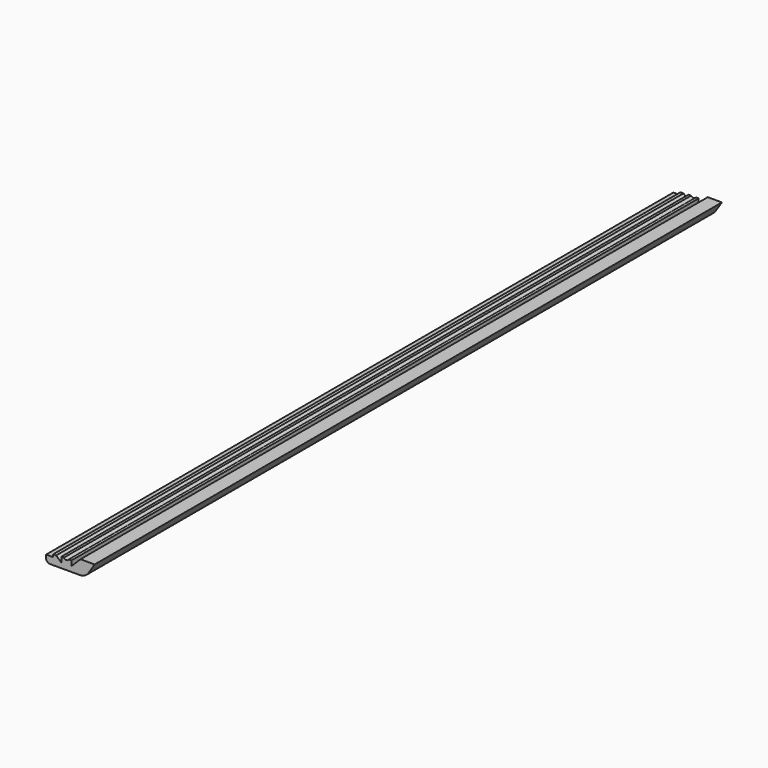
from build123d import *

# Parameters (mm, degrees)
PAD_DEPTH    = 775
POCKET_DEPTH = 800


with BuildPart() as part:
    # Sketch → Pad (new body)
    with BuildSketch(Plane.XZ):
        with BuildLine():
            Line((14, -4), (-16, -4))
            ThreePointArc((-20, 0), (-18.828427, -2.828427), (-16, -4))
            Line((-20, 3), (-20, 0))
            Line((-13, 3), (-20, 3))
            Line((-13, 5.5), (-13, 3))
            Line((-10, 5.5), (-13, 5.5))
            Line((-10, 5.5), (-5, 1))
            Line((-5, 6), (-5, 1))
            Line((5, 6), (-5, 6))
            Line((5, 6), (5, 1))
            Line((14, 10), (5, 1))
            Line((28, 10), (14, 10))
            Line((21.78, 0.396373), (28, 10))
            ThreePointArc((14, -4), (18.428584, -2.754913), (21.78, 0.396373))
        make_face()
    extrude(amount=PAD_DEPTH)

    # Sketch001 (on Face16 of Pad) → Pocket (cut)
    with BuildSketch(Plane.XZ.offset(775)):
        with BuildLine():
            ThreePointArc((-2.51, 6.117451), (0, 4.67), (2.51, 6.117451))
            Line((-2.51, 6.117451), (2.51, 6.117451))
        make_face()
    extrude(amount=-POCKET_DEPTH, mode=Mode.SUBTRACT)


solid = part.part
